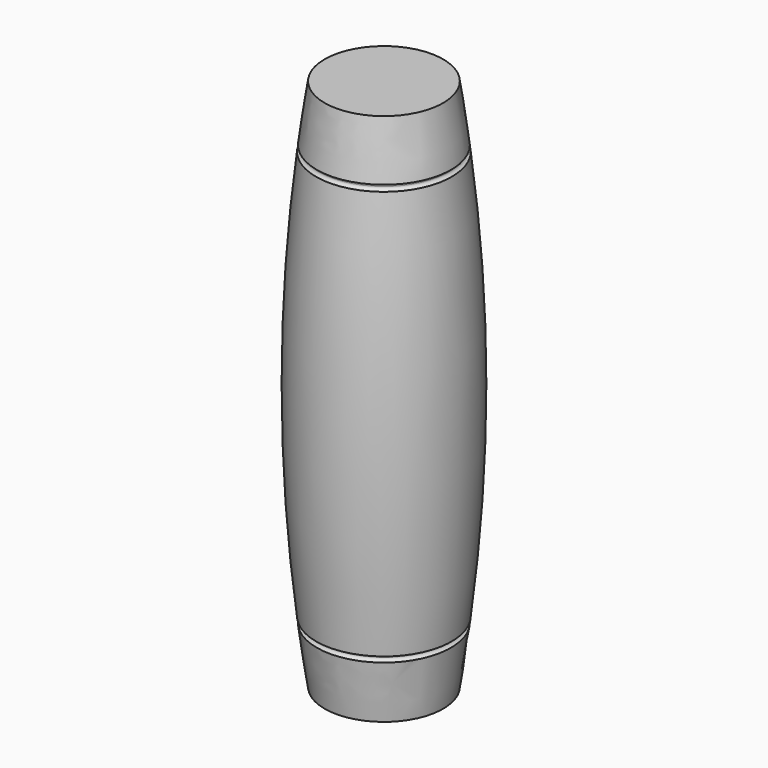
from build123d import *


with BuildPart() as f1:
    # F0 (on Front) → F1 (revolve)
    with BuildSketch(Plane.XZ):
        with BuildLine():
            Line((-10, 0), (0, 0))
            Line((0, 0), (0, 11))
            Line((0, 11), (-6.75, 45))
            Line((-6.75, 45), (0, 79))
            Line((0, 79), (0, 90))
            Line((0, 90), (-10, 90))
            ThreePointArc((-10, 90), (-10.702785, 85.25363), (-11.327226, 80.496319))
            ThreePointArc((-11.327226, 80.496319), (-11.013431, 80.331453), (-10.887782, 80))
            ThreePointArc((-10.887782, 80), (-11.056008, 79.625933), (-11.447486, 79.503577))
            ThreePointArc((-11.447486, 79.503577), (-13.5, 44.989041), (-11.444887, 10.47466))
            ThreePointArc((-11.444887, 10.47466), (-10.994967, 10.405326), (-10.787731, 10))
            ThreePointArc((-10.787731, 10), (-10.948332, 9.632838), (-11.326963, 9.501542))
            ThreePointArc((-11.326963, 9.501542), (-10.702636, 4.745303), (-10, 0))
        make_face()
    revolve(axis=Axis((0, 0, 45), (0, 0, 1)))


solid = f1.part
